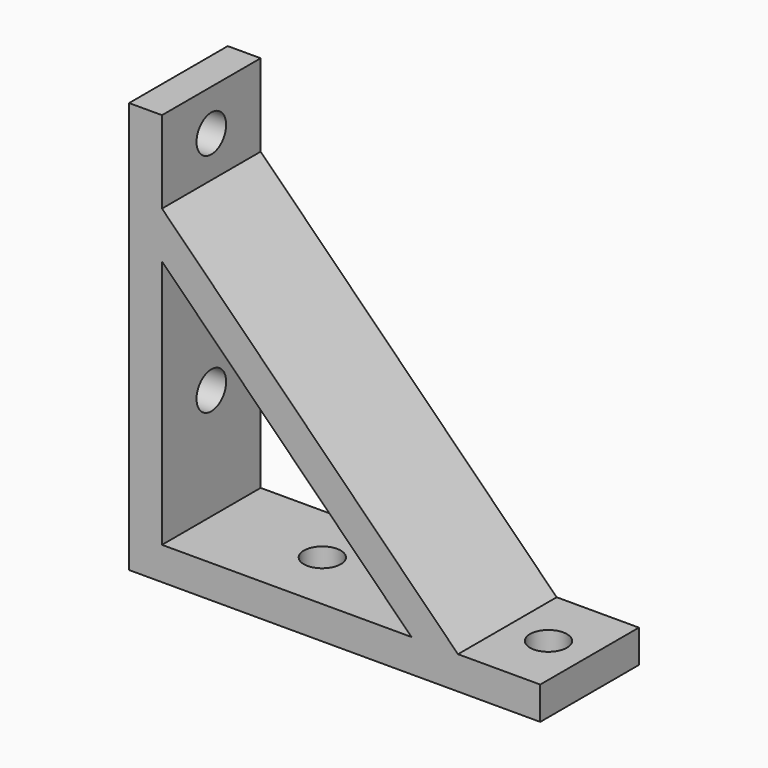
from build123d import *

# Parameters (mm, degrees)
F1_DEPTH = 30
F3_D     = 9
F3_DEPTH = 8.001
F5_D     = 9
F5_DEPTH = 8.001


with BuildPart() as f1:
    # F0 (on Front) → F1 (new body)
    with BuildSketch(Plane.XZ):
        Polygon((0, 100), (0, 0), (100, 0), (100, 8), (80, 8), (8, 80), (8, 100), align=None)
        Polygon((8, 8), (8, 68.686291501), (68.686291501, 8), align=None, mode=Mode.SUBTRACT)
    extrude(amount=F1_DEPTH)

    # F3 (through all, one way)
    with BuildSketch(Plane.XY.offset(8)):
        with Locations((35, -15), (90, -15)):
            Circle(F3_D / 2)
    extrude(amount=-F3_DEPTH, mode=Mode.SUBTRACT)

    # F5 (through all, one way)
    with BuildSketch(Plane.YZ.offset(8)):
        with Locations((-15, 90), (-15, 35)):
            Circle(F5_D / 2)
    extrude(amount=-F5_DEPTH, mode=Mode.SUBTRACT)


solid = f1.part
